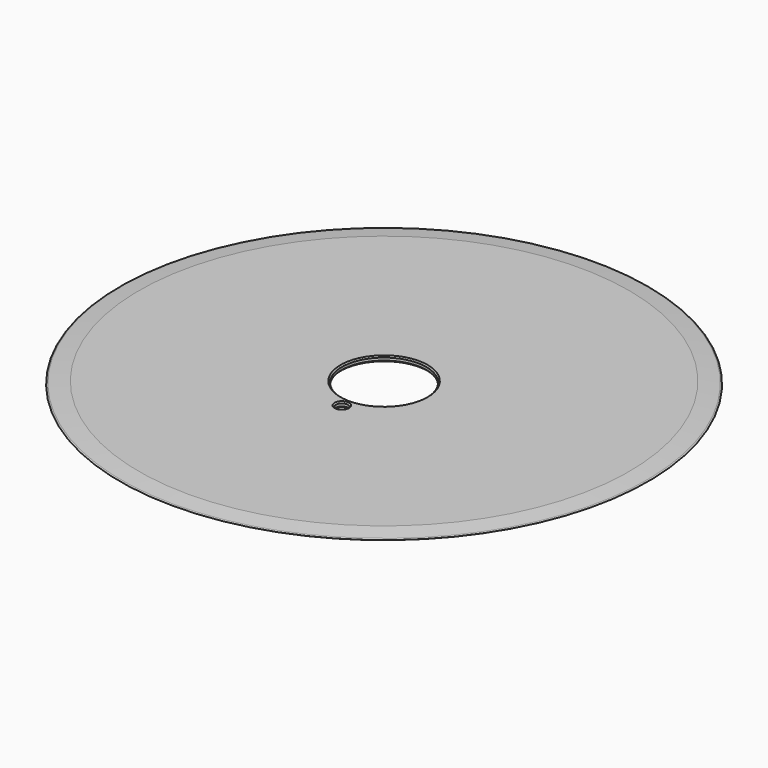
from build123d import *

# Parameters (mm, degrees)
F0_R     = 100
F0_R_2   = 2.25
F0_R_3   = 16
F1_DEPTH = 1
F4_SIZE  = 0.5


with BuildPart() as f1:
    # F0 (on Top) → F1 (new body, symmetric)
    with BuildSketch(Plane.XY):
        Circle(F0_R)
        with Locations((0, -20)):
            Circle(F0_R_2, mode=Mode.SUBTRACT)
        Circle(F0_R_3, mode=Mode.SUBTRACT)
    extrude(amount=F1_DEPTH, both=True)

    # F2 (on Right) → F3 (revolve, cut)
    with BuildSketch(Plane.YZ):
        Polygon((-100, 1.035245), (-100, 0), (-99.477045, 0.301928), (-92.5, 1.035245), align=None)
        Polygon((-99.477045, -0.301928), (-100, 0), (-100, -1.035245), (-92.5, -1.035245), align=None)
    revolve(axis=Axis((0, 0, 4.501528), (0, 0, 1)), mode=Mode.SUBTRACT)

    # F4
    f4_edges = [f1.edges().sort_by_distance(p)[0] for p in [
        (-16, 0, 1),
        (-16, 0, -1),
        (-2.25, -20, 1),
        (-2.25, -20, -1),
    ]]
    chamfer(f4_edges, length=F4_SIZE)


solid = f1.part
